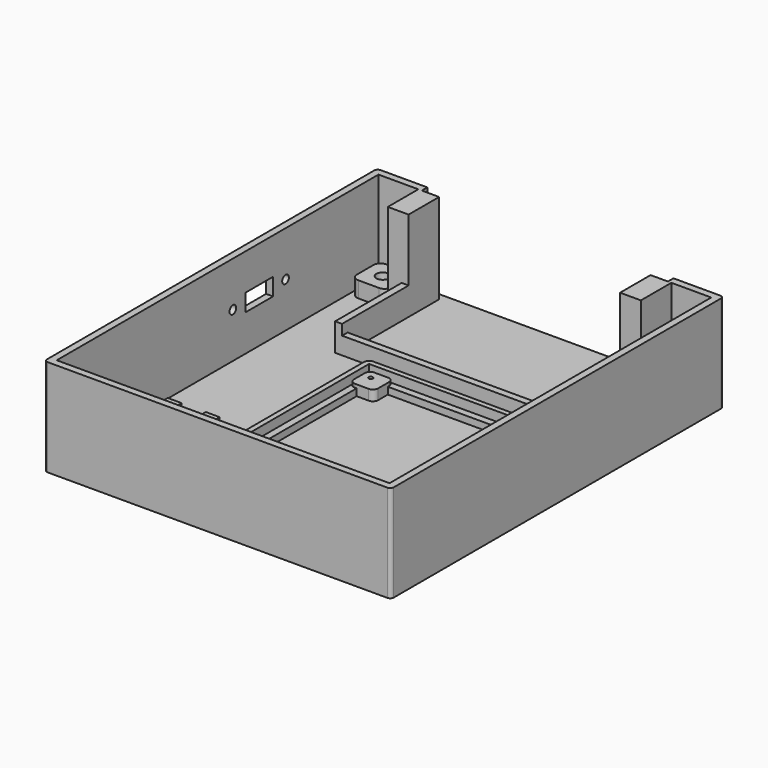
from build123d import *

# Parameters (mm, degrees)
SKETCH002_W                  = 7.5
SKETCH002_H                  = 23.2
SKETCH002_R                  = 1.2
SKETCH002_W_2                = 5
SKETCH002_H_2                = 10
PAD001_DEPTH                 = 5
BOX023_W                     = 6
BOX023_H                     = 23
BOX023_DEPTH                 = 5
CUT002003006_PLACEMENT_ANGLE = 90
CYLINDER016_R                = 0.6
CYLINDER016_DEPTH            = 10
ARRAY013_X_COUNT             = 2
ARRAY013_X_PITCH             = 66
CYLINDER014_R                = 1.8
CYLINDER014_DEPTH            = 6.6
ARRAY011_X_COUNT             = 2
ARRAY011_X_PITCH             = 84
ARRAY011_Y_COUNT             = 2
ARRAY011_Y_PITCH             = 104
BOX007_W                     = 14.5
BOX007_H                     = 2
BOX007_DEPTH                 = 28
BOX008_W                     = 2
BOX008_H                     = 120
BOX008_DEPTH                 = 28
BOX009_W                     = 2
BOX009_H                     = 120
BOX009_DEPTH                 = 28
CYLINDER011_R                = 0.6
CYLINDER011_DEPTH            = 10
ARRAY008_X_COUNT             = 2
ARRAY008_X_PITCH             = 66
ARRAY008_Y_COUNT             = 2
ARRAY008_Y_PITCH             = 46
BOX011_W                     = 71
BOX011_H                     = 51
BOX011_DEPTH                 = 10
BOX013_W                     = 67
BOX013_H                     = 47
BOX013_DEPTH                 = 10
BOX014_W                     = 74
BOX014_H                     = 54
BOX014_DEPTH                 = 6.7
FILLET004_R                  = 1.5
BOX012_W                     = 7
BOX012_H                     = 7
BOX012_DEPTH                 = 5
FILLET003_R                  = 1.5
ARRAY007_X_COUNT             = 2
ARRAY007_X_PITCH             = 64
ARRAY007_Y_COUNT             = 2
ARRAY007_Y_PITCH             = 44
BODY001_PLACEMENT_ANGLE      = 90
BOX016_W                     = 10
BOX016_H                     = 10
BOX016_DEPTH                 = 6.6
FILLET005_R                  = 2
ARRAY010_X_COUNT             = 2
ARRAY010_X_PITCH             = 84
ARRAY010_Y_COUNT             = 2
ARRAY010_Y_PITCH             = 104
CYLINDER015_R                = 0.6
CYLINDER015_DEPTH            = 10
BOX024_W                     = 6
BOX024_H                     = 4
BOX024_DEPTH                 = 3.5
ARRAY012_X_COUNT             = 2
ARRAY012_X_PITCH             = 15
ARRAY012_Y_COUNT             = 2
ARRAY012_Y_PITCH             = 11
ARRAY012_PLACEMENT_ANGLE     = 90
BOX028_W                     = 14.5
BOX028_H                     = 2
BOX028_DEPTH                 = 28
BOX025_W                     = 65
BOX025_H                     = 2
BOX025_DEPTH                 = 7
BOX026_W                     = 2
BOX026_H                     = 24
BOX026_DEPTH                 = 10
BOX027_W                     = 2
BOX027_H                     = 24
BOX027_DEPTH                 = 10
BOX029_W                     = 6
BOX029_H                     = 11
BOX029_DEPTH                 = 28
BOX030_W                     = 6
BOX030_H                     = 11
BOX030_DEPTH                 = 28
BOX005_W                     = 100
BOX005_H                     = 120
BOX005_DEPTH                 = 2
BOX006_W                     = 100
BOX006_H                     = 2
BOX006_DEPTH                 = 28
FILLET007_R                  = 1


with BuildPart() as body002:
    # Sketch002 → Pad001 (new body)
    with BuildSketch(Plane.XY):
        Rectangle(SKETCH002_W, SKETCH002_H)
        with Locations((0, 9.5)):
            Circle(SKETCH002_R, mode=Mode.SUBTRACT)
        with Locations((0, -9.5)):
            Circle(SKETCH002_R, mode=Mode.SUBTRACT)
        Rectangle(SKETCH002_W_2, SKETCH002_H_2, mode=Mode.SUBTRACT)
    extrude(amount=PAD001_DEPTH)


with BuildPart() as switch_holes_cut:
    # Box023 → Box023 (new body)
    with BuildSketch(Plane(origin=(-3, -11.5, 0), x_dir=(1, 0, 0), z_dir=(0, 0, 1))):
        with Locations((3, 11.5)):
            Rectangle(BOX023_W, BOX023_H)
    extrude(amount=BOX023_DEPTH)

    # Cut002003006: cut Body002
    add(body002.part, mode=Mode.SUBTRACT)


with BuildPart() as switch_holes_cut_1:
    # Cut002003006 placement: moved
    add(switch_holes_cut.part.moved(Location((-46, 35, 8))).rotate(Axis((-46, 35, 8), (0, -1, 0)), CUT002003006_PLACEMENT_ANGLE))


with BuildPart() as battery_section_screw_hole_array:
    # Cylinder016 → Cylinder016 (new body)
    with BuildSketch(Plane(origin=(-33, 79, 7), x_dir=(1, 0, 0), z_dir=(0, -1, 0))):
        Circle(CYLINDER016_R)
    extrude(amount=CYLINDER016_DEPTH)

    # Array013 X: battery section screw hole array ×2


with BuildPart() as battery_section_screw_hole_array_1:
    add(battery_section_screw_hole_array.part)
    with Locations(*[(i * ARRAY013_X_PITCH, 0, 0) for i in range(1, ARRAY013_X_COUNT)]):
        add(battery_section_screw_hole_array.part)


with BuildPart() as bottom_hole_fusion:
    # Cylinder014 → Cylinder014 (new body)
    with BuildSketch(Plane.XY):
        Circle(CYLINDER014_R)
    extrude(amount=CYLINDER014_DEPTH)

    # Array011 X: bottom hole fusion ×2


with BuildPart() as bottom_hole_fusion_1:
    add(bottom_hole_fusion.part)
    with Locations(*[(i * ARRAY011_X_PITCH, 0, 0) for i in range(1, ARRAY011_X_COUNT)]):
        add(bottom_hole_fusion.part)

    # Array011 Y: bottom hole fusion ×2


with BuildPart() as bottom_hole_fusion_2:
    add(bottom_hole_fusion_1.part)
    with Locations(*[(0, i * ARRAY011_Y_PITCH, 0) for i in range(1, ARRAY011_Y_COUNT)]):
        add(bottom_hole_fusion_1.part)


with BuildPart() as bottom_hole_fusion_3:
    # Array011 placement: moved
    add(bottom_hole_fusion_2.part.moved(Location((-42, -32, -7))))

    # Fusion005004007: union switch holes cut, battery section screw hole array
    add(switch_holes_cut_1.part)
    add(battery_section_screw_hole_array_1.part)


with BuildPart() as short_battery_side_wall:
    # Box007 → Box007 (new body)
    with BuildSketch(Plane(origin=(-50, 78, -7), x_dir=(1, 0, 0), z_dir=(0, 0, 1))):
        with Locations((7.25, 1)):
            Rectangle(BOX007_W, BOX007_H)
    extrude(amount=BOX007_DEPTH)


with BuildPart() as long_side_wall:
    # Box008 → Box008 (new body)
    with BuildSketch(Plane(origin=(-50, -40, -7), x_dir=(1, 0, 0), z_dir=(0, 0, 1))):
        with Locations((1, 60)):
            Rectangle(BOX008_W, BOX008_H)
    extrude(amount=BOX008_DEPTH)


with BuildPart() as other_long_side_wall:
    # Box009 → Box009 (new body)
    with BuildSketch(Plane(origin=(48, -40, -7), x_dir=(1, 0, 0), z_dir=(0, 0, 1))):
        with Locations((1, 60)):
            Rectangle(BOX009_W, BOX009_H)
    extrude(amount=BOX009_DEPTH)


with BuildPart() as dd_hole_array:
    # Cylinder011 → Cylinder011 (new body)
    with BuildSketch(Plane(origin=(4, 4, 0), x_dir=(1, 0, 0), z_dir=(0, 0, 1))):
        Circle(CYLINDER011_R)
    extrude(amount=CYLINDER011_DEPTH)

    # Array008 X: dd hole array ×2


with BuildPart() as dd_hole_array_1:
    add(dd_hole_array.part)
    with Locations(*[(i * ARRAY008_X_PITCH, 0, 0) for i in range(1, ARRAY008_X_COUNT)]):
        add(dd_hole_array.part)

    # Array008 Y: dd hole array ×2


with BuildPart() as dd_hole_array_2:
    add(dd_hole_array_1.part)
    with Locations(*[(0, i * ARRAY008_Y_PITCH, 0) for i in range(1, ARRAY008_Y_COUNT)]):
        add(dd_hole_array_1.part)


with BuildPart() as pcb_extraction001:
    # Box011 → Box011 (new body)
    with BuildSketch(Plane(origin=(1.5, 1.5, 4), x_dir=(1, 0, 0), z_dir=(0, 0, 1))):
        with Locations((35.5, 25.5)):
            Rectangle(BOX011_W, BOX011_H)
    extrude(amount=BOX011_DEPTH)


with BuildPart() as bottom_extraction003:
    # Box013 → Box013 (new body)
    with BuildSketch(Plane(origin=(3.5, 3.5, 0), x_dir=(1, 0, 0), z_dir=(0, 0, 1))):
        with Locations((33.5, 23.5)):
            Rectangle(BOX013_W, BOX013_H)
    extrude(amount=BOX013_DEPTH)

    # Fusion005: union pcb extraction001
    add(pcb_extraction001.part)


with BuildPart() as pcb_box_cut001:
    # Box014 → Box014 (new body)
    with BuildSketch(Plane.XY):
        with Locations((37, 27)):
            Rectangle(BOX014_W, BOX014_H)
    extrude(amount=BOX014_DEPTH)

    # Fillet004
    fillet004_edges = [pcb_box_cut001.edges().sort_by_distance(p)[0] for p in [
        (0, 0, 3.35),
        (0, 54, 3.35),
        (74, 0, 3.35),
        (74, 54, 3.35),
    ]]
    fillet(fillet004_edges, radius=FILLET004_R)

    # Cut002004: cut bottom extraction003
    add(bottom_extraction003.part, mode=Mode.SUBTRACT)


with BuildPart() as body001:
    # Box012 → Box012 (new body)
    with BuildSketch(Plane(origin=(1.5, 1.5, 0), x_dir=(1, 0, 0), z_dir=(0, 0, 1))):
        with Locations((3.5, 3.5)):
            Rectangle(BOX012_W, BOX012_H)
    extrude(amount=BOX012_DEPTH)

    # Fillet003
    fillet003_edges = [body001.edges().sort_by_distance(p)[0] for p in [
        (1.5, 1.5, 2.5),
        (1.5, 8.5, 2.5),
        (8.5, 1.5, 2.5),
        (8.5, 8.5, 2.5),
    ]]
    fillet(fillet003_edges, radius=FILLET003_R)

    # Array007 X: Body001 ×2


with BuildPart() as body001_1:
    add(body001.part)
    with Locations(*[(i * ARRAY007_X_PITCH, 0, 0) for i in range(1, ARRAY007_X_COUNT)]):
        add(body001.part)

    # Array007 Y: Body001 ×2


with BuildPart() as body001_2:
    add(body001_1.part)
    with Locations(*[(0, i * ARRAY007_Y_PITCH, 0) for i in range(1, ARRAY007_Y_COUNT)]):
        add(body001_1.part)

    # Fusion003: union pcb box cut001
    add(pcb_box_cut001.part)

    # Cut002005: cut dd hole array
    add(dd_hole_array_2.part, mode=Mode.SUBTRACT)


with BuildPart() as body001_3:
    # Body001 placement: moved
    add(body001_2.part.moved(Location((35, -36, -7))).rotate(Axis((35, -36, -7), (0, 0, 1)), BODY001_PLACEMENT_ANGLE))


with BuildPart() as stand_cube_array001:
    # Box016 → Box016 (new body)
    with BuildSketch(Plane(origin=(-5, -5, 0), x_dir=(1, 0, 0), z_dir=(0, 0, 1))):
        with Locations((5, 5)):
            Rectangle(BOX016_W, BOX016_H)
    extrude(amount=BOX016_DEPTH)

    # Fillet005
    fillet005_edges = [stand_cube_array001.edges().sort_by_distance(p)[0] for p in [
        (-5, -5, 3.3),
        (-5, 5, 3.3),
        (5, -5, 3.3),
        (5, 5, 3.3),
    ]]
    fillet(fillet005_edges, radius=FILLET005_R)

    # Array010 X: stand cube array001 ×2


with BuildPart() as stand_cube_array001_1:
    add(stand_cube_array001.part)
    with Locations(*[(i * ARRAY010_X_PITCH, 0, 0) for i in range(1, ARRAY010_X_COUNT)]):
        add(stand_cube_array001.part)

    # Array010 Y: stand cube array001 ×2


with BuildPart() as stand_cube_array001_2:
    add(stand_cube_array001_1.part)
    with Locations(*[(0, i * ARRAY010_Y_PITCH, 0) for i in range(1, ARRAY010_Y_COUNT)]):
        add(stand_cube_array001_1.part)


with BuildPart() as stand_cube_array001_3:
    # Array010 placement: moved
    add(stand_cube_array001_2.part.moved(Location((-42, -32, -7))))


with BuildPart() as hole:
    # Cylinder015 → Cylinder015 (new body)
    with BuildSketch(Plane.XY):
        Circle(CYLINDER015_R)
    extrude(amount=CYLINDER015_DEPTH)


with BuildPart() as hole_array:
    # Box024 → Box024 (new body)
    with BuildSketch(Plane(origin=(-3, -2, 0), x_dir=(1, 0, 0), z_dir=(0, 0, 1))):
        with Locations((3, 2)):
            Rectangle(BOX024_W, BOX024_H)
    extrude(amount=BOX024_DEPTH)

    # Cut002003007: cut hole
    add(hole.part, mode=Mode.SUBTRACT)

    # Array012 X: hole array ×2


with BuildPart() as hole_array_1:
    add(hole_array.part)
    with Locations(*[(i * ARRAY012_X_PITCH, 0, 0) for i in range(1, ARRAY012_X_COUNT)]):
        add(hole_array.part)

    # Array012 Y: hole array ×2


with BuildPart() as hole_array_2:
    add(hole_array_1.part)
    with Locations(*[(0, i * ARRAY012_Y_PITCH, 0) for i in range(1, ARRAY012_Y_COUNT)]):
        add(hole_array_1.part)


with BuildPart() as hole_array_3:
    # Array012 placement: moved
    add(hole_array_2.part.moved(Location((-31, -21, -5))).rotate(Axis((-31, -21, -5), (0, 0, 1)), ARRAY012_PLACEMENT_ANGLE))


with BuildPart() as short_battery_side_wall001:
    # Box028 → Box028 (new body)
    with BuildSketch(Plane(origin=(35.5, 78, -7), x_dir=(1, 0, 0), z_dir=(0, 0, 1))):
        with Locations((7.25, 1)):
            Rectangle(BOX028_W, BOX028_H)
    extrude(amount=BOX028_DEPTH)


with BuildPart() as battery_long_wall:
    # Box025 → Box025 (new body)
    with BuildSketch(Plane(origin=(-32.5, 43, -7), x_dir=(1, 0, 0), z_dir=(0, 0, 1))):
        with Locations((32.5, 1)):
            Rectangle(BOX025_W, BOX025_H)
    extrude(amount=BOX025_DEPTH)


with BuildPart() as battery_short_wall:
    # Box026 → Box026 (new body)
    with BuildSketch(Plane(origin=(30.5, 43, -7), x_dir=(1, 0, 0), z_dir=(0, 0, 1))):
        with Locations((1, 12)):
            Rectangle(BOX026_W, BOX026_H)
    extrude(amount=BOX026_DEPTH)


with BuildPart() as battery_switch_side_short_wall:
    # Box027 → Box027 (new body)
    with BuildSketch(Plane(origin=(-32.5, 43, -7), x_dir=(1, 0, 0), z_dir=(0, 0, 1))):
        with Locations((1, 12)):
            Rectangle(BOX027_W, BOX027_H)
    extrude(amount=BOX027_DEPTH)


with BuildPart() as battery_hole_stand:
    # Box029 → Box029 (new body)
    with BuildSketch(Plane(origin=(-36.5, 67, -7), x_dir=(1, 0, 0), z_dir=(0, 0, 1))):
        with Locations((3, 5.5)):
            Rectangle(BOX029_W, BOX029_H)
    extrude(amount=BOX029_DEPTH)


with BuildPart() as battery_hole_stand001:
    # Box030 → Box030 (new body)
    with BuildSketch(Plane(origin=(30.5, 67, -7), x_dir=(1, 0, 0), z_dir=(0, 0, 1))):
        with Locations((3, 5.5)):
            Rectangle(BOX030_W, BOX030_H)
    extrude(amount=BOX030_DEPTH)


with BuildPart() as bottom_wall:
    # Box005 → Box005 (new body)
    with BuildSketch(Plane(origin=(-50, -40, -7), x_dir=(1, 0, 0), z_dir=(0, 0, 1))):
        with Locations((50, 60)):
            Rectangle(BOX005_W, BOX005_H)
    extrude(amount=BOX005_DEPTH)


with BuildPart() as bottom_cut:
    # Box006 → Box006 (new body)
    with BuildSketch(Plane(origin=(-50, -40, -7), x_dir=(1, 0, 0), z_dir=(0, 0, 1))):
        with Locations((50, 1)):
            Rectangle(BOX006_W, BOX006_H)
    extrude(amount=BOX006_DEPTH)

    # Fusion005004005: union short battery side wall, long side wall, other long side wall, Body001, stand cube array001, hole array, short battery side wall001, battery long wall, battery short wall, battery switch side short wall, battery hole stand, battery hole stand001, bottom wall
    add(short_battery_side_wall.part)
    add(long_side_wall.part)
    add(other_long_side_wall.part)
    add(body001_3.part)
    add(stand_cube_array001_3.part)
    add(hole_array_3.part)
    add(short_battery_side_wall001.part)
    add(battery_long_wall.part)
    add(battery_short_wall.part)
    add(battery_switch_side_short_wall.part)
    add(battery_hole_stand.part)
    add(battery_hole_stand001.part)
    add(bottom_wall.part)

    # Fillet007
    fillet007_edges = [bottom_cut.edges().sort_by_distance(p)[0] for p in [
        (-50, -40, 8),
        (-50, 80, 8),
        (50, -40, 8),
        (50, 80, 8),
    ]]
    fillet(fillet007_edges, radius=FILLET007_R)

    # Cut002003005: cut bottom hole fusion
    add(bottom_hole_fusion_3.part, mode=Mode.SUBTRACT)


solid = bottom_cut.part
